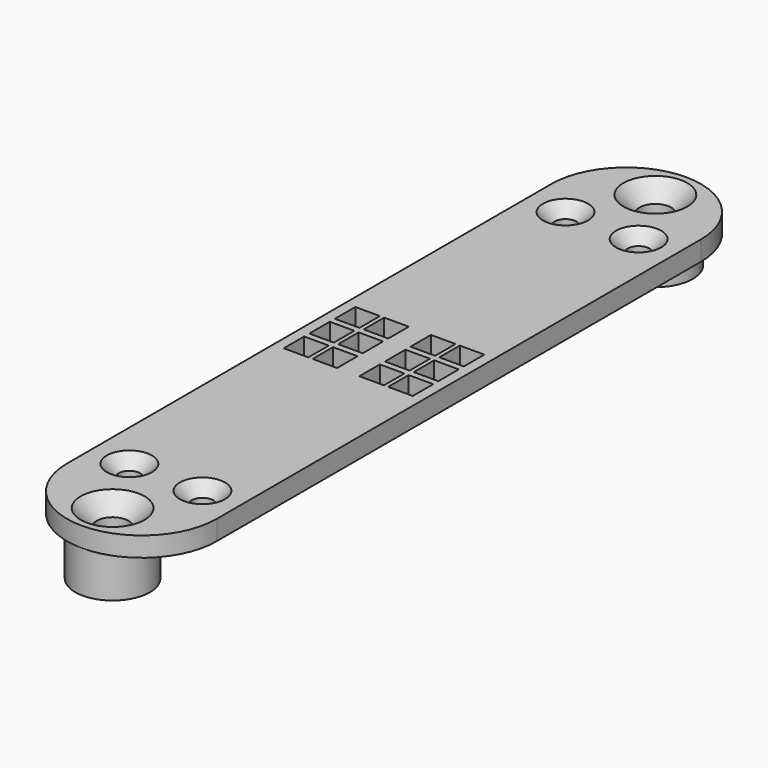
from build123d import *

# Parameters (mm, degrees)
SKETCH002_R            = 1.6
PAD_DEPTH              = 2
CHAMFER_SIZE           = 1.65
CHAMFER003_SIZE        = 1.65
SKETCH005_W            = 15.232
SKETCH005_H            = 21.56
SKETCH005_W_2          = 2.5
SKETCH005_H_2          = 2.6
PAD003_DEPTH           = 2
SKETCH_R               = 3.8
SKETCH_R_2             = 1.6
PAD004_DEPTH           = 4.3
SKETCH001_W            = 15.232
SKETCH001_H            = 20
SKETCH001_R            = 1.1
PAD001_DEPTH           = 2
CHAMFER002_SIZE        = 1.2
FUSION_PLACEMENT_ANGLE = 180


with BuildPart() as chamfer003:
    # Sketch002 → Pad (new body)
    with BuildSketch(Plane.XY):
        with BuildLine():
            ThreePointArc((15.232, 41.56), (7.616, 49.176), (0, 41.56))
            Line((0, 41.56), (15.232, 41.56))
        make_face()
        with Locations((7.616, 45.28)):
            Circle(SKETCH002_R, mode=Mode.SUBTRACT)
        with BuildLine():
            ThreePointArc((0, -20), (7.616, -27.616), (15.232, -20))
            Line((0, -20), (15.232, -20))
        make_face()
        with Locations((7.616, -23.72)):
            Circle(SKETCH002_R, mode=Mode.SUBTRACT)
    extrude(amount=PAD_DEPTH)

    # Chamfer
    chamfer_edges = [chamfer003.edges().sort_by_distance(p)[0] for p in [
        (6.016, 45.28, 0),
    ]]
    chamfer(chamfer_edges, length=CHAMFER_SIZE)

    # Chamfer003
    chamfer003_edges = [chamfer003.edges().sort_by_distance(p)[0] for p in [
        (6.016, -23.72, 0),
    ]]
    chamfer(chamfer003_edges, length=CHAMFER003_SIZE)


with BuildPart() as pad003:
    # Sketch005 → Pad003 (new body)
    with BuildSketch(Plane.XY):
        with Locations((7.616, 10.78)):
            Rectangle(SKETCH005_W, SKETCH005_H)
        with Locations((2.3099, 10.78)):
            Rectangle(SKETCH005_W_2, SKETCH005_H_2, mode=Mode.SUBTRACT)
        with Locations((2.3099, 14.03)):
            Rectangle(SKETCH005_W_2, SKETCH005_H_2, mode=Mode.SUBTRACT)
        with Locations((2.3099, 7.53)):
            Rectangle(SKETCH005_W_2, SKETCH005_H_2, mode=Mode.SUBTRACT)
        with Locations((5.2399, 14.03)):
            Rectangle(SKETCH005_W_2, SKETCH005_H_2, mode=Mode.SUBTRACT)
        with Locations((5.2399, 10.78)):
            Rectangle(SKETCH005_W_2, SKETCH005_H_2, mode=Mode.SUBTRACT)
        with Locations((5.2399, 7.53)):
            Rectangle(SKETCH005_W_2, SKETCH005_H_2, mode=Mode.SUBTRACT)
        with Locations((10, 14.03)):
            Rectangle(SKETCH005_W_2, SKETCH005_H_2, mode=Mode.SUBTRACT)
        with Locations((12.93, 14.03)):
            Rectangle(SKETCH005_W_2, SKETCH005_H_2, mode=Mode.SUBTRACT)
        with Locations((10, 10.78)):
            Rectangle(SKETCH005_W_2, SKETCH005_H_2, mode=Mode.SUBTRACT)
        with Locations((12.93, 10.78)):
            Rectangle(SKETCH005_W_2, SKETCH005_H_2, mode=Mode.SUBTRACT)
        with Locations((10, 7.53)):
            Rectangle(SKETCH005_W_2, SKETCH005_H_2, mode=Mode.SUBTRACT)
        with Locations((12.93, 7.53)):
            Rectangle(SKETCH005_W_2, SKETCH005_H_2, mode=Mode.SUBTRACT)
    extrude(amount=PAD003_DEPTH)


with BuildPart() as pad004:
    # Sketch → Pad004 (new body)
    with BuildSketch(Plane.XY.offset(2)):
        with Locations((7.616, 45.28)):
            Circle(SKETCH_R)
        with Locations((7.616, 45.28)):
            Circle(SKETCH_R_2, mode=Mode.SUBTRACT)
        with Locations((7.616, -23.72)):
            Circle(SKETCH_R)
        with Locations((7.616, -23.72)):
            Circle(SKETCH_R_2, mode=Mode.SUBTRACT)
    extrude(amount=PAD004_DEPTH)


with BuildPart() as fusion:
    # Sketch001 → Pad001 (new body)
    with BuildSketch(Plane.XY):
        with Locations((7.616, -10)):
            Rectangle(SKETCH001_W, SKETCH001_H)
        with Locations((3.8995, -16.9419)):
            Circle(SKETCH001_R, mode=Mode.SUBTRACT)
        with Locations((11.3325, -16.9419)):
            Circle(SKETCH001_R, mode=Mode.SUBTRACT)
        with Locations((7.616, 31.56)):
            Rectangle(SKETCH001_W, SKETCH001_H)
        with Locations((3.8995, 38.5019)):
            Circle(SKETCH001_R, mode=Mode.SUBTRACT)
        with Locations((11.3325, 38.5019)):
            Circle(SKETCH001_R, mode=Mode.SUBTRACT)
    extrude(amount=PAD001_DEPTH)

    # Chamfer002
    chamfer002_edges = [fusion.edges().sort_by_distance(p)[0] for p in [
        (10.2325, -16.9419, 0),
        (2.7995, -16.9419, 0),
        (10.2325, 38.5019, 0),
        (2.7995, 38.5019, 0),
    ]]
    chamfer(chamfer002_edges, length=CHAMFER002_SIZE)

    # Fusion: union Chamfer003, Pad003, Pad004
    add(chamfer003.part)
    add(pad003.part)
    add(pad004.part)


with BuildPart() as fusion_1:
    # Fusion placement: moved
    add(fusion.part.moved(Location((0, 0, 40))).rotate(Axis((0, 0, 40), (1, 0, 0)), FUSION_PLACEMENT_ANGLE))


solid = fusion_1.part
